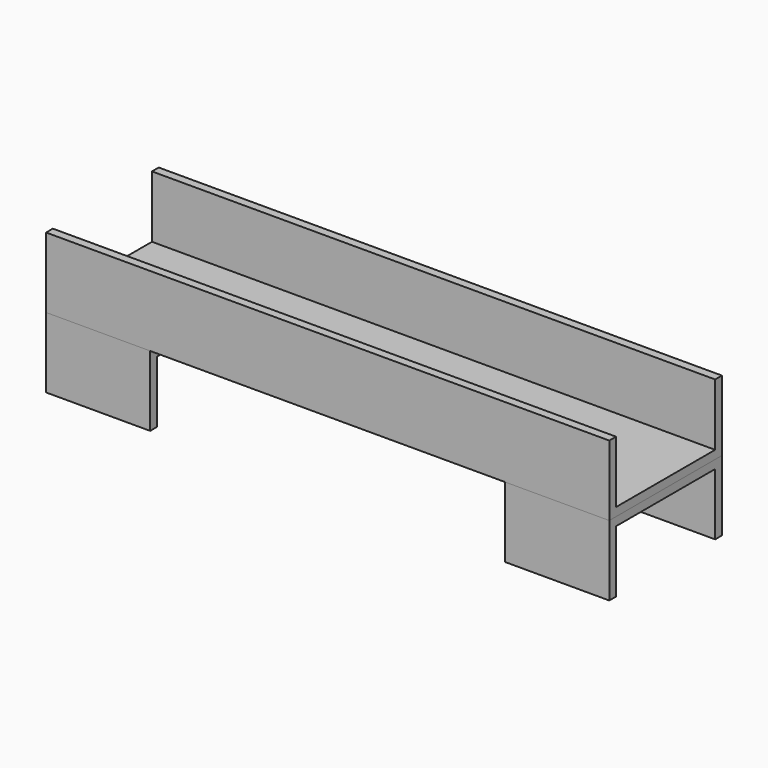
from build123d import *

# Parameters (mm, degrees)
F0_W     = 200
F0_H     = 25
F1_DEPTH = 50
F2_W     = 44
F2_H     = 22
F3_DEPTH = 200.001
F4_W     = 36.956964
F4_H     = 50
F5_DEPTH = 25
F6_W     = 44
F6_H     = 22
F7_DEPTH = 36.957964


with BuildPart() as f1:
    # F0 (on Front) → F1 (new body)
    with BuildSketch(Plane.XZ):
        Rectangle(F0_W, F0_H)
    extrude(amount=F1_DEPTH)

    # F2 (on face) → F3 (cut, through all)
    with BuildSketch(Plane.YZ.offset(100)):
        with Locations((-25, 1.5)):
            Rectangle(F2_W, F2_H)
    extrude(amount=-F3_DEPTH, mode=Mode.SUBTRACT)


with BuildPart() as f5:
    # F4 (on face) → F5 (new body)
    with BuildSketch(Plane(origin=(0, 0, -12.5), x_dir=(1, 0, 0), z_dir=(0, 0, -1))):
        with Locations((-81.521518, 25)):
            Rectangle(F4_W, F4_H)
    extrude(amount=F5_DEPTH)

    # F6 (on face) → F7 (cut, through all)
    with BuildSketch(Plane.YZ.offset(-63.043036)):
        with Locations((-25, -26.5)):
            Rectangle(F6_W, F6_H)
    extrude(amount=-F7_DEPTH, mode=Mode.SUBTRACT)


with BuildPart() as f8_1:
    # F8: instance of F5
    add(f5.part.mirror(Plane.YZ))


solid = Compound([f1.part, f5.part, f8_1.part])
